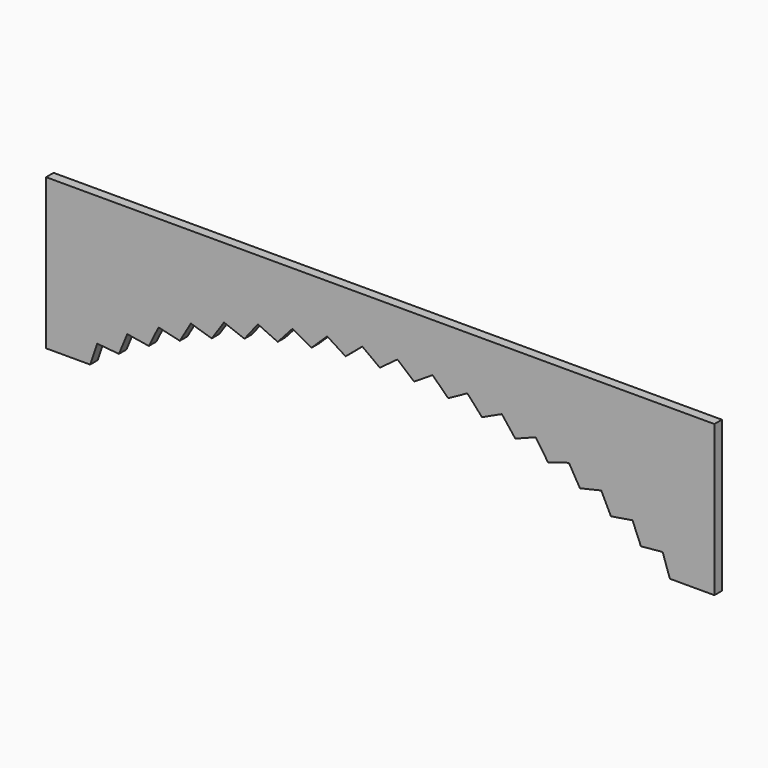
from build123d import *

# Parameters (mm, degrees)
PAD_DEPTH          = 6.35
POCKET_DEPTH       = 930.254973
POLARPATTERN_COUNT = 18
POLARPATTERN_ANGLE = 66


with BuildPart() as part:
    # Sketch001 → Pad (new body)
    with BuildSketch(Plane.XZ.offset(9.652)):
        with BuildLine():
            Line((-225.298, 381), (225.298, 381))
            Line((225.298, 381), (225.298, 279.4))
            Line((225.298, 279.4), (195.637986, 279.4))
            ThreePointArc((195.637986, 279.4), (0, 341.08442), (-195.637986, 279.4))
            Line((-225.298, 279.4), (-195.637986, 279.4))
            Line((-225.298, 279.4), (-225.298, 381))
        make_face()
    extrude(amount=PAD_DEPTH)

    # Sketch002 (on Face8 of Pad) → Pocket (cut, through all)
    with BuildSketch(Plane.XZ.offset(16.002)):
        with BuildLine():
            Line((-168.490483, 291.336334), (-190.854721, 293.415253))
            Line((-190.854721, 293.415253), (-198.020414, 272.128312))
            ThreePointArc((-168.490483, 291.336334), (-183.506939, 282.118957), (-198.020414, 272.128312))
        make_face()
    pocket = extrude(amount=-POCKET_DEPTH, mode=Mode.SUBTRACT)

    # PolarPattern: Pocket ×18 about axis
    polarpattern_axis = Axis((0, 0, 0), (0, 1, 0))
    for i in range(1, POLARPATTERN_COUNT):
        add(pocket.rotate(polarpattern_axis, i * POLARPATTERN_ANGLE / (POLARPATTERN_COUNT - 1)), mode=Mode.SUBTRACT)


solid = part.part
